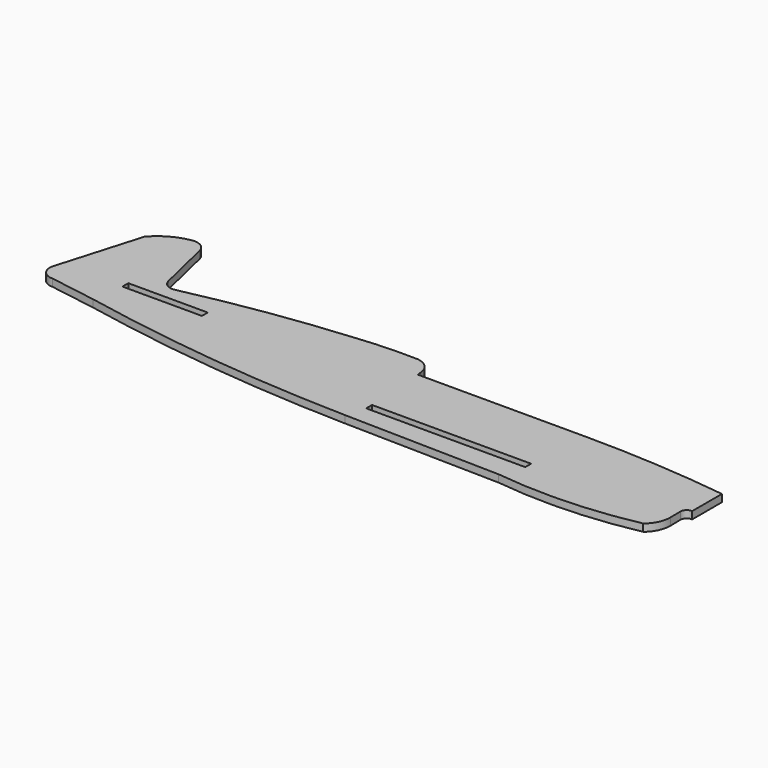
from build123d import *

# Parameters (mm, degrees)
F0_W     = 65
F0_H     = 6
F0_W_2   = 130
F1_DEPTH = 6


with BuildPart() as f1:
    # F0 (on Top) → F1 (new body)
    with BuildSketch(Plane.XY):
        with BuildLine():
            Line((-172.914558, 23.37498), (-183.537395, 68.384158))
            ThreePointArc((-183.537395, 68.384158), (-188.503299, 75.22998), (-196.863512, 76.507601))
            ThreePointArc((-196.863512, 76.507601), (-211.276495, 71.361563), (-223.12419, 61.674048))
            Line((-223.12419, 61.674048), (-243.158294, -6.624031))
            Line((-243.158294, -6.624031), (286.841706, -6.624031))
            Line((286.841706, -6.624031), (286.841706, 14.214297))
            ThreePointArc((286.841706, 14.214297), (228.846641, 19.825852), (170.610839, 21.698951))
            Line((170.610839, 21.698951), (32.24461, 21.698951))
            Line((32.24461, 21.698951), (31.802109, 25.625584))
            ThreePointArc((31.802109, 25.625584), (26.712862, 35.070635), (16.50378, 38.369733))
            ThreePointArc((16.50378, 38.369733), (-6.900195, 38.178785), (-30.239211, 36.425835))
            ThreePointArc((-30.239211, 36.425835), (-96.427228, 28.654331), (-161.946659, 16.470163))
            ThreePointArc((-161.946659, 16.470163), (-168.84401, 17.677466), (-172.914558, 23.37498))
        make_face()
        with Locations((-158.532006, 2.002824)):
            Rectangle(F0_W, F0_H, mode=Mode.SUBTRACT)
        with BuildLine():
            Line((286.841706, -6.624031), (-243.158294, -6.624031))
            ThreePointArc((-243.158294, -6.624031), (-241.41439, -16.025181), (-232.804301, -20.183209))
            Line((-232.804301, -20.183209), (-194.829215, -26.364981))
            ThreePointArc((-194.829215, -26.364981), (-82.594257, -43.652901), (30.72672, -50.995535))
            Line((30.72672, -50.995535), (158.609955, -53.635519))
            ThreePointArc((158.609955, -53.635519), (216.073845, -56.007438), (273.170183, -49.09854))
            ThreePointArc((273.170183, -49.09854), (279.335818, -41.281654), (281.455098, -31.553993))
            Line((281.455098, -31.553993), (281.330585, -21.315108))
            ThreePointArc((281.330585, -21.315108), (282.952438, -17.537773), (286.841706, -16.206507))
            Line((286.841706, -16.206507), (286.841706, -6.624031))
        make_face()
        with Locations((100.650969, -32.257092)):
            Rectangle(F0_W_2, F0_H, mode=Mode.SUBTRACT)
    extrude(amount=F1_DEPTH)


solid = f1.part
